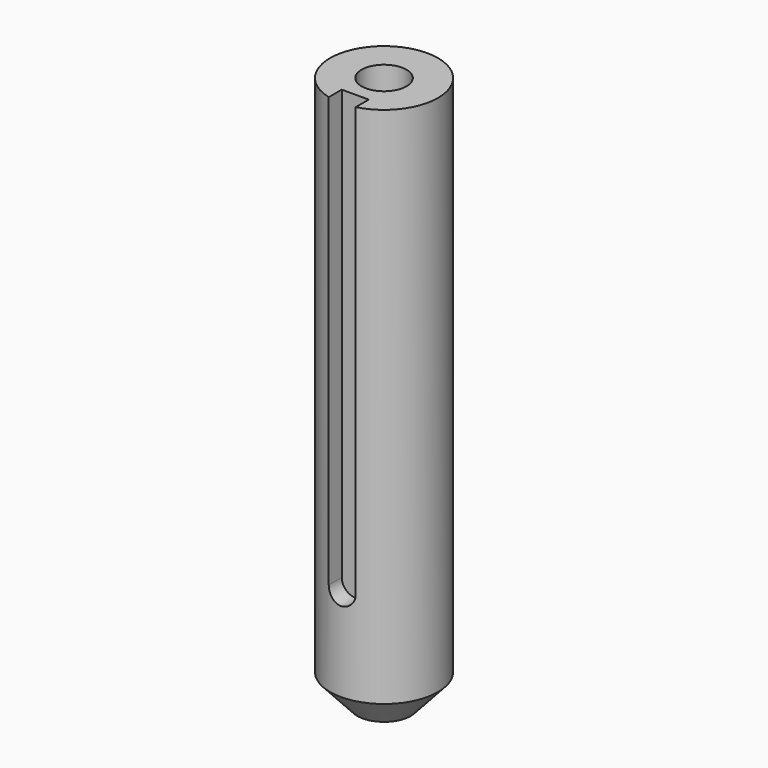
from build123d import *

# Parameters (mm, degrees)
F3_W     = 3
F3_H     = 51.086168
F4_DEPTH = 2


with BuildPart() as f1:
    # F0 (on Front) → F1 (revolve)
    with BuildSketch(Plane.XZ):
        Polygon((0, 3.326293), (6, 3.326293), (6, 61.462326), (2.5, 61.462326), (2.5, 16.462326), (0, 16.462326), (0, 5.21718), align=None)
        Polygon((2.977777, 0), (6, 3.326293), (0, 3.326293), (0, 0), align=None)
    revolve(axis=Axis((0, 0, -12.16099), (0, 0, -1)))

    # F3 (on offset) → F4 (cut)
    with BuildSketch(Plane.XZ.offset(6)):
        with Locations((0, 39.274613)):
            Rectangle(F3_W, F3_H)
        with BuildLine():
            Line((1.5, 13.731529), (-1.5, 13.731529))
            ThreePointArc((-1.5, 13.731529), (0, 12.231529), (1.5, 13.731529))
        make_face()
    extrude(amount=-F4_DEPTH, mode=Mode.SUBTRACT)


solid = f1.part
